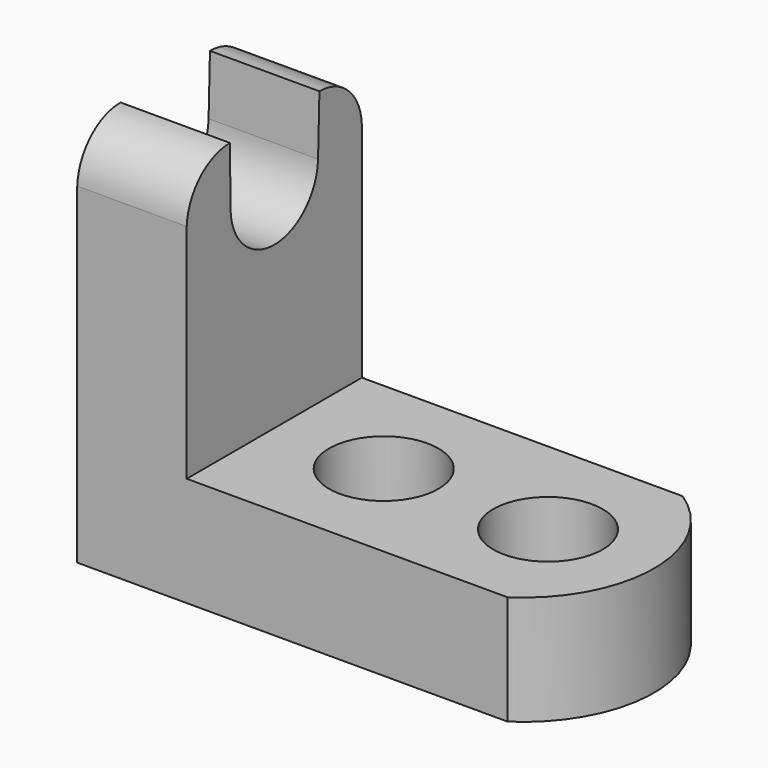
from build123d import *

# Parameters (mm, degrees)
F0_W      = 57.15
F0_H      = 44.45
F1_DEPTH  = 25.4
F2_W      = 44.45
F2_H      = 31.75
F3_DEPTH  = 25.4
F5_DEPTH  = 25.4
F7_DEPTH  = 25.4
F9_DEPTH  = 25.4
F10_R     = 6.35
F11_DEPTH = 25.4
F13_DEPTH = 25.4


with BuildPart() as f1:
    # F0 (on Front) → F1 (new body)
    with BuildSketch(Plane.XZ):
        with Locations((28.575, 22.225)):
            Rectangle(F0_W, F0_H)
    extrude(amount=F1_DEPTH)

    # F2 (on face) → F3 (cut)
    with BuildSketch(Plane.XZ.offset(25.4)):
        with Locations((34.925, 28.575)):
            Rectangle(F2_W, F2_H)
    extrude(amount=-F3_DEPTH, mode=Mode.SUBTRACT)

    # F4 (on face) → F5 (cut)
    with BuildSketch(Plane.YZ.offset(12.7)):
        with BuildLine():
            ThreePointArc((-19.049607, 37.71184), (-12.735329, 44.132399), (-6.35, 37.782498))
            ThreePointArc((-6.35, 37.782498), (-6.350663, 37.690749), (-6.352651, 37.59902))
            Line((-6.352651, 37.59902), (-6.154615, 44.45))
            Line((-6.154615, 44.45), (-19.124588, 44.45))
            Line((-19.124588, 44.45), (-19.049607, 37.71184))
        make_face()
        with BuildLine():
            ThreePointArc((-6.352651, 37.59902), (-6.350663, 37.690749), (-6.35, 37.782498))
            ThreePointArc((-6.35, 37.782498), (-12.735329, 44.132399), (-19.049607, 37.71184))
            ThreePointArc((-19.049607, 37.71184), (-12.756422, 31.432748), (-6.352651, 37.59902))
        make_face()
    extrude(amount=-F5_DEPTH, mode=Mode.SUBTRACT)

    # F6 (on face) → F7 (cut)
    with BuildSketch(Plane.YZ.offset(12.7)):
        with BuildLine():
            ThreePointArc((-25.4, 38.466346), (-23.46005, 42.71433), (-19.124588, 44.45))
            Line((-19.124588, 44.45), (-25.4, 44.45))
            Line((-25.4, 44.45), (-25.4, 38.466346))
        make_face()
    extrude(amount=-F7_DEPTH, mode=Mode.SUBTRACT)

    # F8 (on face) → F9 (cut)
    with BuildSketch(Plane.YZ.offset(12.7)):
        with BuildLine():
            ThreePointArc((-6.154615, 44.45), (-1.862663, 42.707521), (0, 38.466346))
            Line((0, 38.466346), (0, 44.45))
            Line((0, 44.45), (-6.154615, 44.45))
        make_face()
    extrude(amount=-F9_DEPTH, mode=Mode.SUBTRACT)

    # F10 (on face) → F11 (cut)
    with BuildSketch(Plane.XY.offset(12.7)):
        with Locations((44.45, -12.7)):
            Circle(F10_R)
        with Locations((25.4, -12.7)):
            Circle(F10_R)
    extrude(amount=-F11_DEPTH, mode=Mode.SUBTRACT)

    # F12 (on face) → F13 (cut)
    with BuildSketch(Plane.XY.offset(12.7)):
        with BuildLine():
            ThreePointArc((49.920771, 0), (56.759721, -12.7), (49.920771, -25.4))
            Line((49.920771, -25.4), (57.15, -25.4))
            Line((57.15, -25.4), (57.15, 0))
            Line((57.15, 0), (49.920771, 0))
        make_face()
    extrude(amount=-F13_DEPTH, mode=Mode.SUBTRACT)


solid = f1.part
